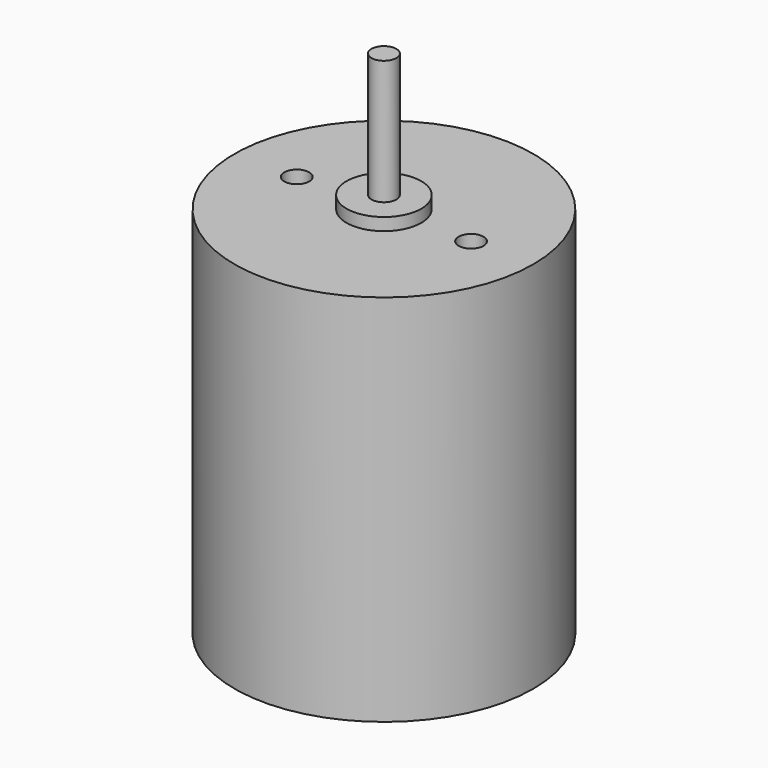
from build123d import *

# Parameters (mm, degrees)
SKETCH_R     = 12
PAD_DEPTH    = 30
SKETCH001_R  = 3
PAD001_DEPTH = 1
SKETCH002_R  = 1
PAD002_DEPTH = 10
SKETCH003_R  = 1
POCKET_DEPTH = 4


with BuildPart() as part:
    # Sketch → Pad (new body)
    with BuildSketch(Plane.XY):
        Circle(SKETCH_R)
    extrude(amount=PAD_DEPTH)

    # Sketch001 (on Face3 of Pad) → Pad001 (join)
    with BuildSketch(Plane.XY.offset(30)):
        Circle(SKETCH001_R)
    extrude(amount=PAD001_DEPTH)

    # Sketch002 (on Face5 of Pad001) → Pad002 (join)
    with BuildSketch(Plane.XY.offset(31)):
        Circle(SKETCH002_R)
    extrude(amount=PAD002_DEPTH)

    # Sketch003 (on Face3 of Pad002) → Pocket (cut)
    with BuildSketch(Plane.XY.offset(30)):
        with Locations((-7, 0)):
            Circle(SKETCH003_R)
        with Locations((7, 0)):
            Circle(SKETCH003_R)
    extrude(amount=-POCKET_DEPTH, mode=Mode.SUBTRACT)


solid = part.part
